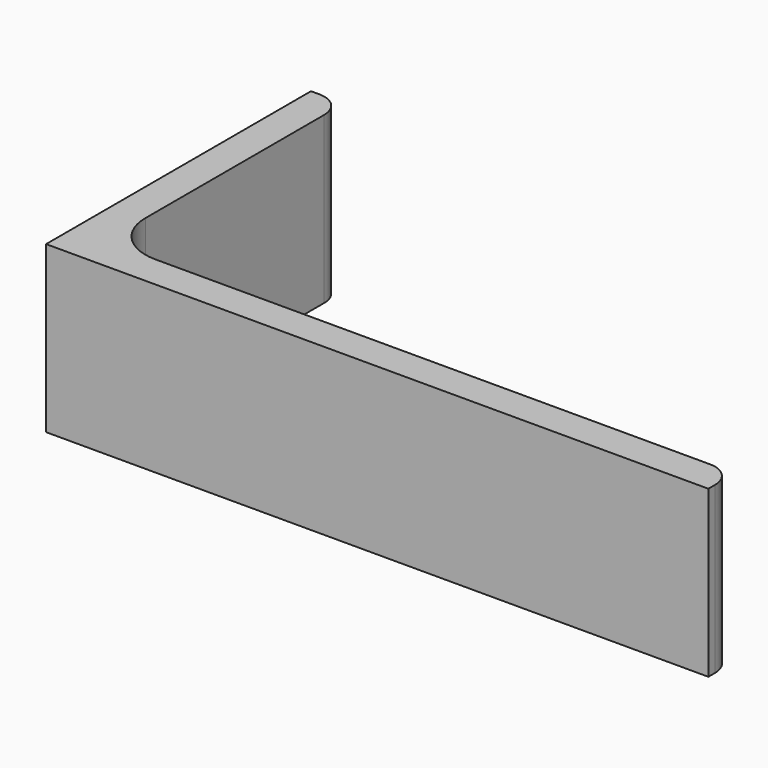
from build123d import *

# Parameters (mm, degrees)
EXTRUDE_DEPTH = 50


with BuildPart() as part:
    # Sketch → Extrude (new body)
    with BuildSketch(Plane.XY):
        with BuildLine():
            Line((0, 0), (200, 0))
            Line((200, 0), (200, 2.5))
            ThreePointArc((200, 2.5), (197.803301, 7.803301), (192.5, 10))
            Line((192.5, 10), (25, 10))
            ThreePointArc((10, 25), (14.393398, 14.393398), (25, 10))
            Line((10, 92.5), (10, 25))
            ThreePointArc((10, 92.5), (7.803301, 97.803301), (2.5, 100))
            Line((0, 100), (2.5, 100))
            Line((0, 0), (0, 100))
        make_face()
    extrude(amount=EXTRUDE_DEPTH)


solid = part.part
